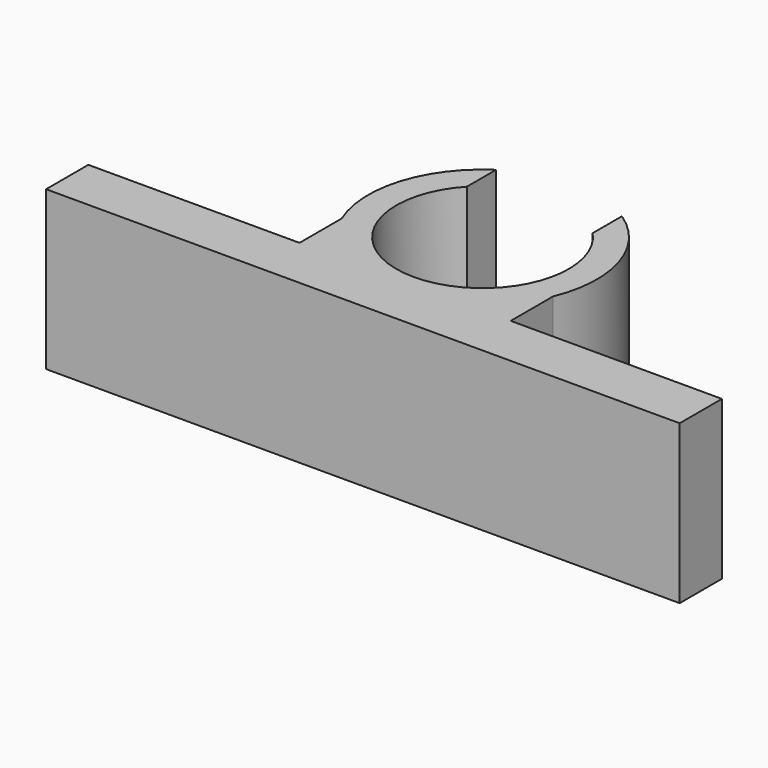
from build123d import *

# Parameters (mm, degrees)
F1_DEPTH = 9


with BuildPart() as f1:
    # F0 (on Top) → F1 (new body)
    with BuildSketch(Plane.XY):
        with BuildLine():
            Line((-3.572917, 3.353247), (-3.572917, 5.429942))
            ThreePointArc((-3.572917, 5.429942), (-6.215398, 1.90232), (-6, -2.5))
            Line((-6, -2.5), (-6, -5.5))
            Line((-6, -5.5), (-18, -5.5))
            Line((-18, -5.5), (-18, -8.5))
            Line((-18, -8.5), (18, -8.5))
            Line((18, -8.5), (18, -5.5))
            Line((18, -5.5), (6, -5.5))
            Line((6, -5.5), (6, -2.5))
            ThreePointArc((6, -2.5), (6.215398, 1.90232), (3.572917, 5.429942))
            Line((3.572917, 5.429942), (3.572917, 3.353247))
            ThreePointArc((3.572917, 3.353247), (0, -4.9), (-3.572917, 3.353247))
        make_face()
    extrude(amount=F1_DEPTH)


solid = f1.part
